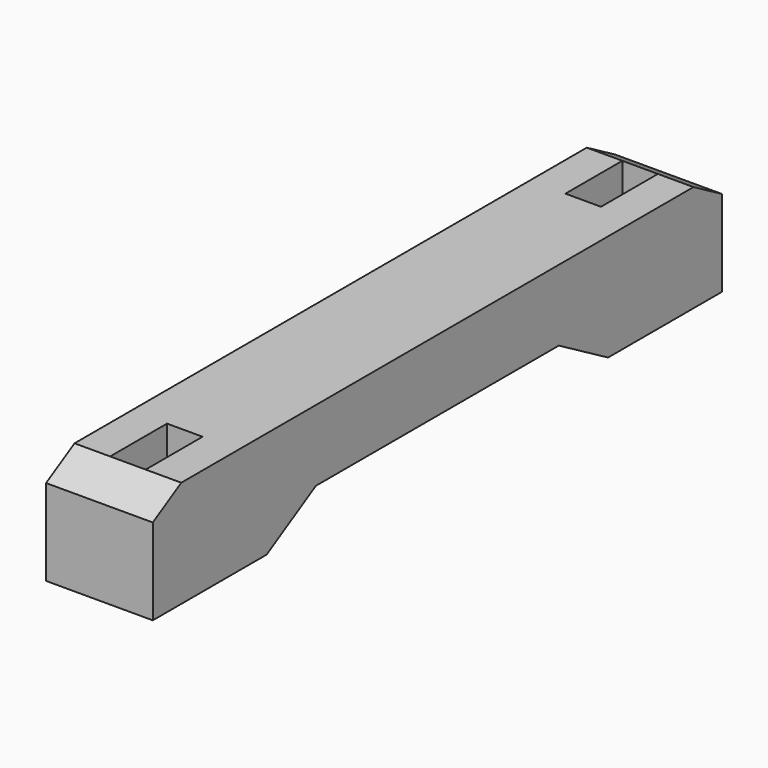
from build123d import *

# Parameters (mm, degrees)
F3_W     = 150
F3_H     = 150
F4_DEPTH = 500
F6_DEPTH = 75
F7_W     = 50
F7_H     = 100
F8_DEPTH = 60


with BuildPart() as f4:
    # F3 (on Front) → F4 (new body, symmetric)
    with BuildSketch(Plane.XZ):
        Rectangle(F3_W, F3_H)
    extrude(amount=F4_DEPTH, both=True)

    # F5 (on Right) → F6 (cut, symmetric)
    with BuildSketch(Plane.YZ):
        Polygon((-500, 75), (-500, 46.1324865405), (-450, 75), align=None)
        Polygon((-213.3974596216, -25), (-300, -75), (0, -75), (300, -75), (213.3974596216, -25), (0, -25), align=None)
        Polygon((450, 75), (500, 46.1324865405), (500, 75), align=None)
    extrude(amount=F6_DEPTH, both=True, mode=Mode.SUBTRACT)

    # F7 (on face) → F8 (cut)
    with BuildSketch(Plane.XY.offset(75)):
        with Locations((0, 400)):
            Rectangle(F7_W, F7_H)
        with Locations((0, -400)):
            Rectangle(F7_W, F7_H)
    extrude(amount=-F8_DEPTH, mode=Mode.SUBTRACT)


solid = f4.part
